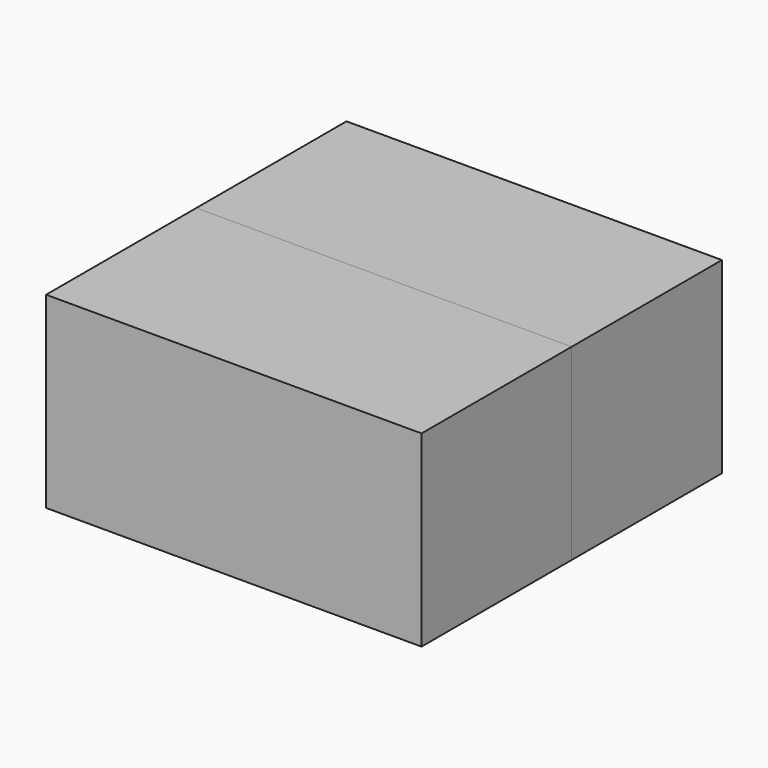
from build123d import *

# Parameters (mm, degrees)
BOX_W                       = 5.12
BOX_H                       = 5.12
BOX_DEPTH                   = 2.56
CYLINDER002_R               = 0.2
CYLINDER002_DEPTH           = 0.01
CYLINDER002_ROLL_ANGLE      = 90.000745
CYLINDER002_PITCH_ANGLE     = -0.001798
CYLINDER002_PLACEMENT_ANGLE = 134.999683
BOX001_W                    = 5.12
BOX001_H                    = 2.56
BOX001_DEPTH                = 2.56


with BuildPart() as field:
    # Box → Box (new body)
    with BuildSketch(Plane.XY):
        with Locations((2.56, 2.56)):
            Rectangle(BOX_W, BOX_H)
    extrude(amount=BOX_DEPTH)


with BuildPart() as driver:
    # Cylinder002 → Cylinder002 (new body)
    with BuildSketch(Plane.XY):
        Circle(CYLINDER002_R)
    extrude(amount=CYLINDER002_DEPTH)


with BuildPart() as driver_1:
    # Cylinder002 roll: moved
    add(driver.part.rotate(Axis((0, 0, 0), (1, 0, 0)), CYLINDER002_ROLL_ANGLE))


with BuildPart() as driver_2:
    # Cylinder002 pitch: moved
    add(driver_1.part.rotate(Axis((0, 0, 0), (0, 1, 0)), CYLINDER002_PITCH_ANGLE))


with BuildPart() as driver_3:
    # Cylinder002 placement: moved
    add(driver_2.part.moved(Location((0.7, 1.8, 1.28))).rotate(Axis((0.7, 1.8, 1.28), (0, 0, 1)), CYLINDER002_PLACEMENT_ANGLE))


with BuildPart() as helium:
    # Box001 → Box001 (new body)
    with BuildSketch(Plane(origin=(0, 2.56, 0), x_dir=(1, 0, 0), z_dir=(0, 0, 1))):
        with Locations((2.56, 1.28)):
            Rectangle(BOX001_W, BOX001_H)
    extrude(amount=BOX001_DEPTH)


solid = Compound([field.part, driver_3.part, helium.part])
